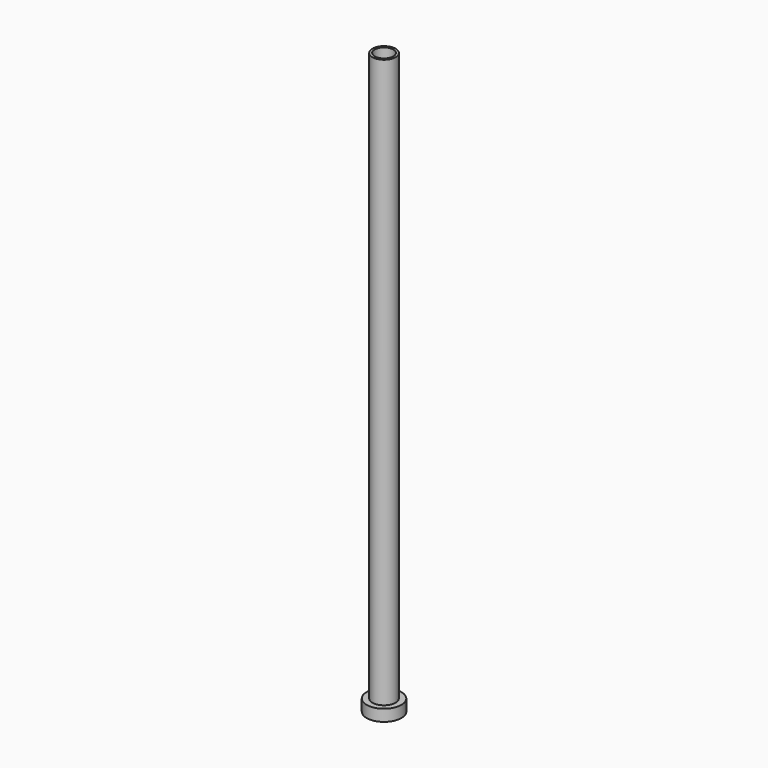
from build123d import *

# Parameters (mm, degrees)
SKETCH_R      = 5
SKETCH_R_2    = 4
PAD_DEPTH     = 250
SKETCH001_R   = 7.5
SKETCH001_R_2 = 4
PAD001_DEPTH  = 5


with BuildPart() as part:
    # Sketch → Pad (new body)
    with BuildSketch(Plane.XY):
        Circle(SKETCH_R)
        Circle(SKETCH_R_2, mode=Mode.SUBTRACT)
    extrude(amount=PAD_DEPTH)

    # Sketch001 → Pad001 (join)
    with BuildSketch(Plane.XY):
        Circle(SKETCH001_R)
        Circle(SKETCH001_R_2, mode=Mode.SUBTRACT)
    extrude(amount=PAD001_DEPTH)


solid = part.part
